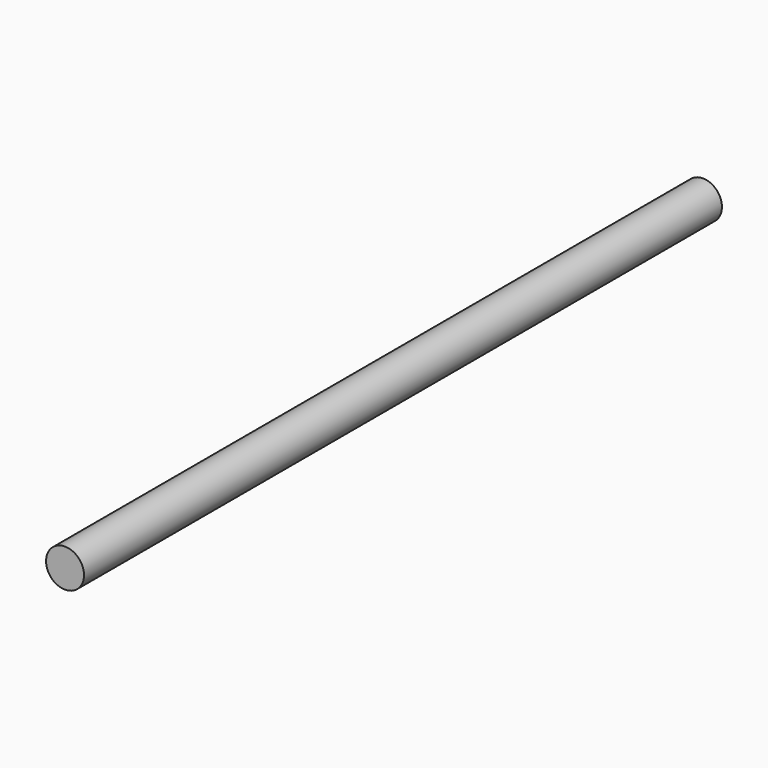
from build123d import *

# Parameters (mm, degrees)
F0_R     = 25
F1_DEPTH = 950
F2_DEPTH = 100


with BuildPart() as f1:
    # F0 (on Front) → F1 (new body)
    with BuildSketch(Plane.XZ):
        Circle(F0_R)
    extrude(amount=F1_DEPTH)

    # F0 (on Front) → F2 (join)
    with BuildSketch(Plane.XZ):
        Circle(F0_R)
    extrude(amount=-F2_DEPTH)


solid = f1.part
